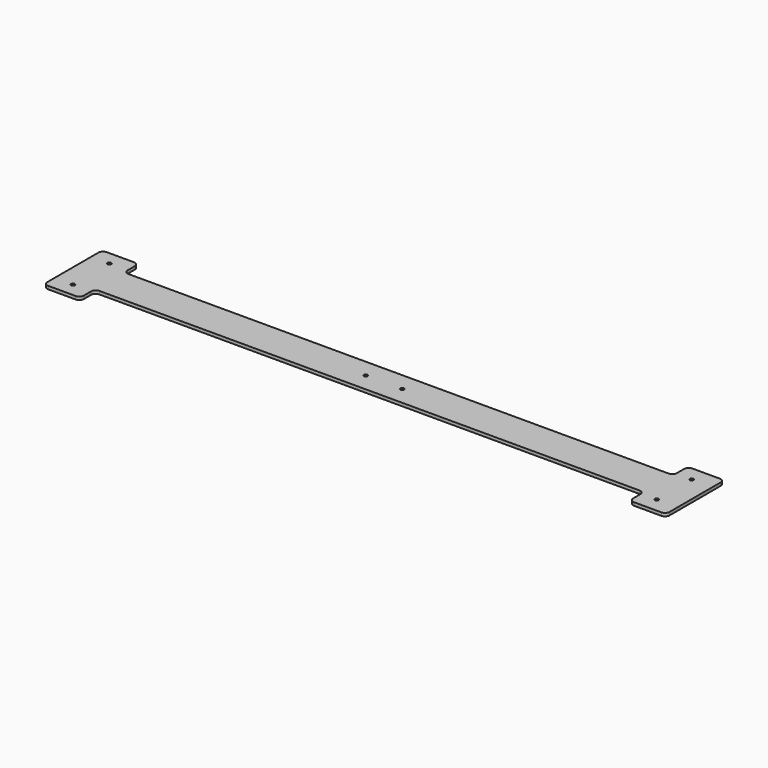
from build123d import *

# Parameters (mm, degrees)
F1_DEPTH = 3.42
F2_R     = 5
F3_R     = 4.5
F4_DEPTH = 5
F5_D     = 4.1


with BuildPart() as f1:
    # F0 (on Top) → F1 (new body)
    with BuildSketch(Plane.XY):
        Polygon((340.865, -40), (340.865, 40), (300.865, 40), (300.865, 20), (-300.865, 20), (-300.865, 40), (-340.865, 40), (-340.865, -40), (-300.865, -40), (-300.865, -20), (300.865, -20), (300.865, -40), align=None)
    extrude(amount=F1_DEPTH)

    # F2
    f2_edges = [f1.edges().sort_by_distance(p)[0] for p in [
        (-340.865, 40, 1.71),
        (-340.865, -40, 1.71),
        (-300.865, 40, 1.71),
        (-300.865, 20, 1.71),
        (-300.865, -20, 1.71),
        (-300.865, -40, 1.71),
        (300.865, 20, 1.71),
        (300.865, 40, 1.71),
        (340.865, 40, 1.71),
        (300.865, -40, 1.71),
        (300.865, -20, 1.71),
        (340.865, -40, 1.71),
    ]]
    fillet(f2_edges, radius=F2_R)

    # F3 (on face) → F4 (join)
    with BuildSketch(Plane.XY.offset(3.42)):
        with Locations((-320.865, 25)):
            Circle(F3_R)
        with Locations((-320.865, -25)):
            Circle(F3_R)
        with Locations((-20, 0)):
            Circle(F3_R)
        with Locations((20, 0)):
            Circle(F3_R)
        with Locations((318.0725574493, 23.9014066756)):
            Circle(F3_R)
        with Locations((318.0725574493, -23.9014066756)):
            Circle(F3_R)
    extrude(amount=-F4_DEPTH)

    # F5 (through all)
    with Locations(Plane.XY.offset(3.42)):
        with Locations((-320.865, -25), (-20, 0), (20, 0), (318.0725574493, 23.9014066756), (318.0725574493, -23.9014066756), (-320.865, 25)):
            Hole(F5_D / 2)


solid = f1.part
